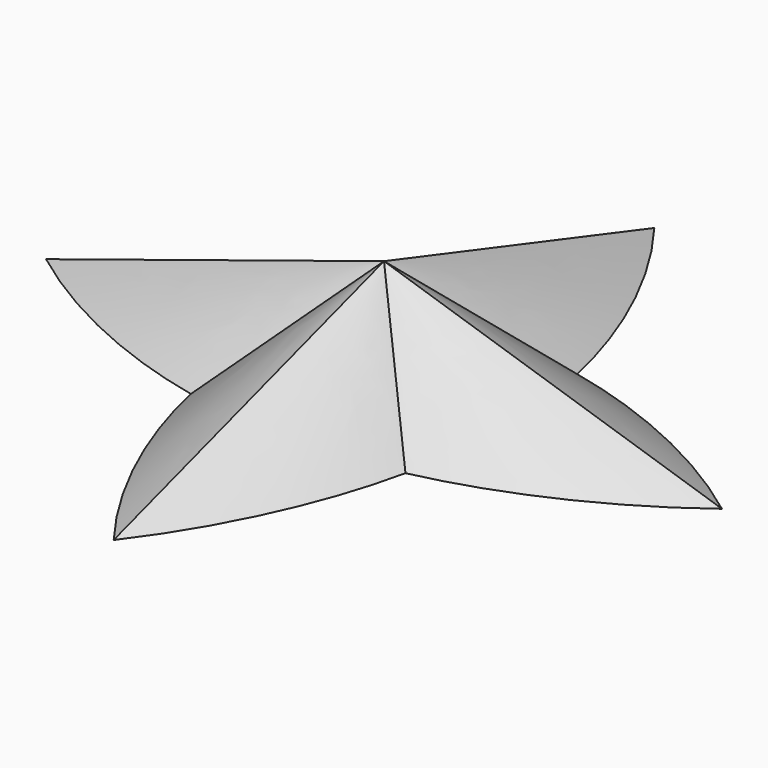
from build123d import *


with BuildPart() as f4:
    # F1 (on Top) → F4 section 0
    with BuildSketch(Plane.XY, mode=Mode.PRIVATE) as f4_s0:
        with BuildLine():
            add(Edge.make_bspline(
                [(0, 25), (3.75286, 20.08172), (6.619529, 14.005937), (7.937671, 7.937671)],
                knots=[0, 0, 0, 0, 18.818334, 18.818334, 18.818334, 18.818334], degree=3))
            add(Edge.make_bspline(
                [(0, 25), (-3.75286, 20.08172), (-6.619529, 14.005937), (-7.937671, 7.937671)],
                knots=[0, 0, 0, 0, 18.818334, 18.818334, 18.818334, 18.818334], degree=3))
            add(Edge.make_bspline(
                [(-25, 0), (-20.08172, 3.75286), (-14.005937, 6.619529), (-7.937671, 7.937671)],
                knots=[0, 0, 0, 0, 18.818334, 18.818334, 18.818334, 18.818334], degree=3))
            add(Edge.make_bspline(
                [(-25, 0), (-20.08172, -3.75286), (-14.005937, -6.619529), (-7.937671, -7.937671)],
                knots=[0, 0, 0, 0, 18.818334, 18.818334, 18.818334, 18.818334], degree=3))
            add(Edge.make_bspline(
                [(0, -25), (-3.75286, -20.08172), (-6.619529, -14.005937), (-7.937671, -7.937671)],
                knots=[0, 0, 0, 0, 18.818334, 18.818334, 18.818334, 18.818334], degree=3))
            add(Edge.make_bspline(
                [(0, -25), (3.75286, -20.08172), (6.619529, -14.005937), (7.937671, -7.937671)],
                knots=[0, 0, 0, 0, 18.818334, 18.818334, 18.818334, 18.818334], degree=3))
            add(Edge.make_bspline(
                [(25, 0), (20.08172, -3.75286), (14.005937, -6.619529), (7.937671, -7.937671)],
                knots=[0, 0, 0, 0, 18.818334, 18.818334, 18.818334, 18.818334], degree=3))
            add(Edge.make_bspline(
                [(25, 0), (20.08172, 3.75286), (14.005937, 6.619529), (7.937671, 7.937671)],
                knots=[0, 0, 0, 0, 18.818334, 18.818334, 18.818334, 18.818334], degree=3))
        make_face()
    loft([f4_s0.sketch, Vertex(0, 0, 8)])


solid = f4.part
